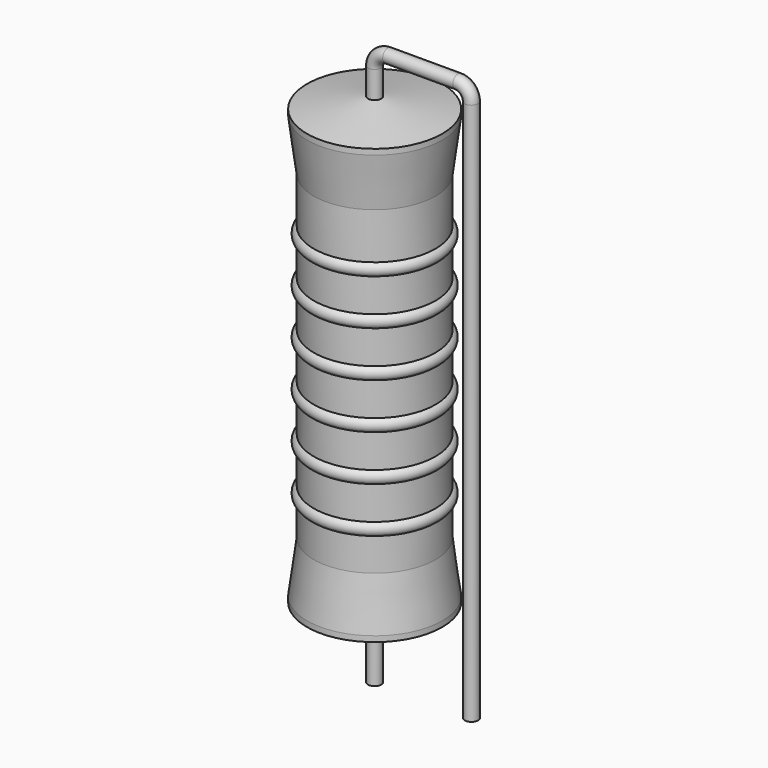
from build123d import *

# Parameters (mm, degrees)
SKETCH_R = 0.35


with BuildPart() as revolution:
    # Sketch002 → Revolution (revolve)
    with BuildSketch(Plane.XZ):
        Polygon((0, 0.1), (0, 24.1), (0.2625, 24.1), (3.55, 23.5), (3.55, 23.2075), (3.195, 20.5), (3.195, 3.7), (3.55, 0.9925), (3.55, 0.7), (0.2625, 0.1), align=None)
    revolve(axis=Axis((0, 0, 0), (0, 0, 1)))


with BuildPart() as sweep_body:
    # Sweep: sweep along a path in Sketch001
    with BuildLine(Plane.XZ) as sweep_path:
        Line((0, -3), (0, 25.5))
        ThreePointArc((0, 25.5), (0.205029, 25.994979), (0.700011, 26.2))
        Line((0.700011, 26.2), (4.38, 26.2))
        ThreePointArc((4.38, 26.2), (4.874975, 25.994975), (5.08, 25.5))
        Line((5.08, 25.5), (5.08, -3))
    # Sketch → Sweep (sweep)
    with BuildSketch(Plane.XY.offset(-2)):
        Circle(SKETCH_R)
    sweep(path=sweep_path.line)


with BuildPart() as obj1:
    # Sketch003 → Revolution001 (revolve)
    with BuildSketch(Plane.XZ):
        with BuildLine():
            Line((2.84, 19.79), (2.84, 3.7))
            Line((2.84, 3.7), (3.053, 3.7))
            Line((3.053, 3.7), (3.053, 5.39))
            ThreePointArc((3.053, 5.39), (3.408, 5.745), (3.053, 6.1))
            Line((3.053, 6.1), (3.053, 7.79))
            ThreePointArc((3.053, 7.79), (3.408, 8.145), (3.053, 8.5))
            Line((3.053, 8.5), (3.053, 10.19))
            ThreePointArc((3.053, 10.19), (3.408, 10.545), (3.053, 10.9))
            Line((3.053, 10.9), (3.053, 12.59))
            ThreePointArc((3.053, 12.59), (3.408, 12.945), (3.053, 13.3))
            Line((3.053, 13.3), (3.053, 14.99))
            ThreePointArc((3.053, 14.99), (3.408, 15.345), (3.053, 15.7))
            Line((3.053, 15.7), (3.053, 17.39))
            ThreePointArc((3.053, 17.39), (3.408, 17.745), (3.053, 18.1))
            Line((3.053, 19.79), (3.053, 18.1))
            Line((2.84, 19.79), (3.053, 19.79))
        make_face()
    revolve(axis=Axis((0, 0, 0), (0, 0, 1)))

    # obj1: union Revolution, Sweep body
    add(revolution.part)
    add(sweep_body.part)


solid = obj1.part
